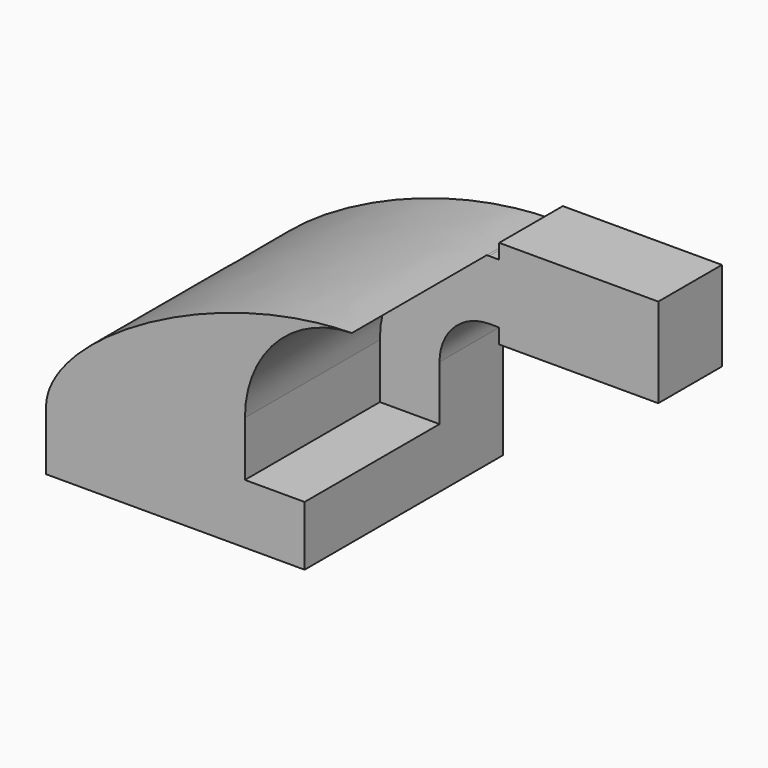
from build123d import *

# Parameters (mm, degrees)
F2_DEPTH = 79.248
F0_W     = 25.4
F0_H     = 19.0499988828
F3_DEPTH = 25.4


with BuildPart() as f2:
    # F0 (on Front) → F2 (new body)
    with BuildSketch(Plane.XZ):
        Polygon((41.275, -9.525), (41.275, 9.525), (22.2250011172, 9.525), (-41.275, 9.525), (-41.275, -9.525), align=None)
        with BuildLine():
            Line((-41.275, 9.525), (22.2250011172, 9.525))
            Line((22.2250011172, 9.525), (22.2250011172, 27.0002))
            ThreePointArc((22.2250011172, 27.0002), (32.1759573239, 51.4143913521), (56.358301529, 61.9162244085))
            add(Edge.make_bspline(
                [(-41.275, 9.525), (-40.962193468, 30.2773661311), (10.7351419733, 61.2238694952), (56.358301529, 61.9162244085)],
                knots=[0, 0, 0, 0, 110.8627649737, 110.8627649737, 110.8627649737, 110.8627649737], degree=3))
        make_face()
    extrude(amount=F2_DEPTH)

    # F0 (on Front) → F3 (join)
    with BuildSketch(Plane.XZ):
        Polygon((41.275, -9.525), (41.275, 9.525), (22.2250011172, 9.525), (-41.275, 9.525), (-41.275, -9.525), align=None)
        with BuildLine():
            Line((22.2250011172, 9.525), (41.275, 9.525))
            Line((41.275, 9.525), (41.275, 27.0002))
            ThreePointArc((41.275, 27.0002), (45.9246798487, 38.2255201513), (57.15, 42.8752))
            Line((57.15, 42.8752), (60.325, 42.8752))
            Line((60.325, 42.8752), (60.325, 61.9251988828))
            Line((60.325, 61.9251988828), (57.15, 61.9251988828))
            add(Edge.make_bspline(
                [(56.358301529, 61.9162244085), (56.622408287, 61.9202323644), (56.8863114928, 61.9232264714), (57.15, 61.9251988828)],
                knots=[110.8627649737, 110.8627649737, 110.8627649737, 110.8627649737, 111.5045356385, 111.5045356385, 111.5045356385, 111.5045356385], degree=3))
            ThreePointArc((56.358301529, 61.9162244085), (32.1759573239, 51.4143913521), (22.2250011172, 27.0002))
            Line((22.2250011172, 27.0002), (22.2250011172, 9.525))
        make_face()
        with BuildLine():
            Line((-41.275, 9.525), (22.2250011172, 9.525))
            Line((22.2250011172, 9.525), (22.2250011172, 27.0002))
            ThreePointArc((22.2250011172, 27.0002), (32.1759573239, 51.4143913521), (56.358301529, 61.9162244085))
            add(Edge.make_bspline(
                [(-41.275, 9.525), (-40.962193468, 30.2773661311), (10.7351419733, 61.2238694952), (56.358301529, 61.9162244085)],
                knots=[0, 0, 0, 0, 110.8627649737, 110.8627649737, 110.8627649737, 110.8627649737], degree=3))
        make_face()
        with BuildLine():
            ThreePointArc((57.15, 61.9251988828), (56.7541253323, 61.9229551922), (56.358301529, 61.9162244085))
            add(Edge.make_bspline(
                [(56.358301529, 61.9162244085), (56.622408287, 61.9202323644), (56.8863114928, 61.9232264714), (57.15, 61.9251988828)],
                knots=[110.8627649737, 110.8627649737, 110.8627649737, 110.8627649737, 111.5045356385, 111.5045356385, 111.5045356385, 111.5045356385], degree=3))
        make_face()
        Polygon((85.725, 42.8752), (60.325, 42.8752), (60.325, 38.1), (111.125, 38.1), (111.125, 66.675), (60.325, 66.675), (60.325, 61.9251988828), (85.725, 61.9251988828), align=None)
        with Locations((73.025, 52.4001994414)):
            Rectangle(F0_W, F0_H)
    extrude(amount=F3_DEPTH)


solid = f2.part
